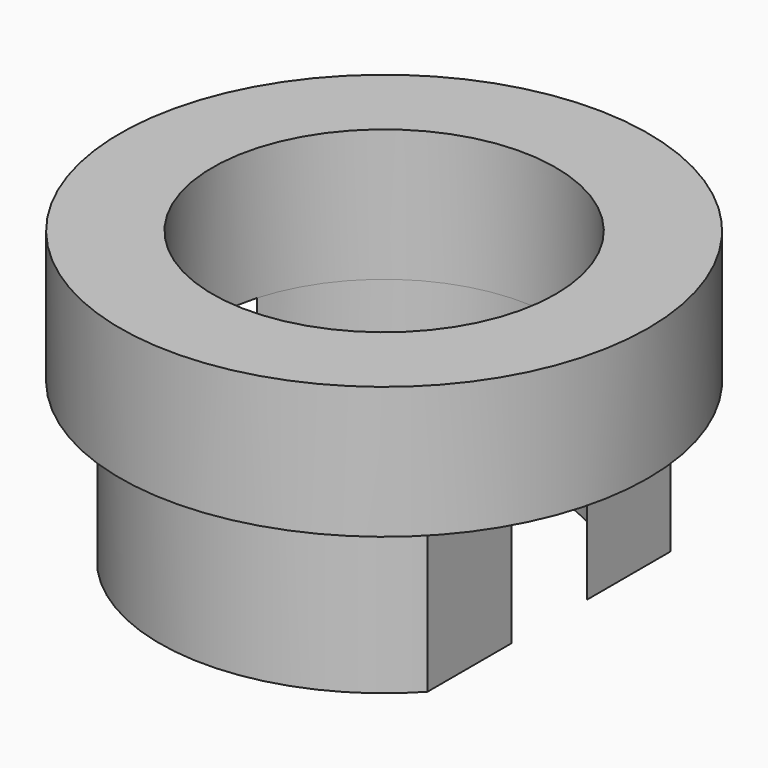
from build123d import *

# Parameters (mm, degrees)
PAD026_DEPTH  = 12
SKETCH071_R   = 20
SKETCH071_R_2 = 13
PAD027_DEPTH  = 10


with BuildPart() as part:
    # Sketch070 (on Face5 of Binder016) → Pad026 (new body)
    with BuildSketch(Plane.XY.offset(8)):
        with BuildLine():
            ThreePointArc((-12.5, -3.570714), (0, -13), (12.5, -3.570714))
            Line((12.5, -11.521719), (12.5, -3.570714))
            ThreePointArc((-12.5, -11.521719), (0, -17), (12.5, -11.521719))
            Line((-12.5, -11.521719), (-12.5, -3.570714))
        make_face()
    pad026 = extrude(amount=PAD026_DEPTH)

    # Mirrored: Pad026 across XZ
    add(pad026.mirror(Plane.XZ))

    # Sketch071 (on Face4 of Mirrored) → Pad027 (join)
    with BuildSketch(Plane.XY.offset(20)):
        Circle(SKETCH071_R)
        Circle(SKETCH071_R_2, mode=Mode.SUBTRACT)
    extrude(amount=PAD027_DEPTH)

    # Mirrored001: Pad026 across XZ
    add(pad026.mirror(Plane.XZ))


solid = part.part
